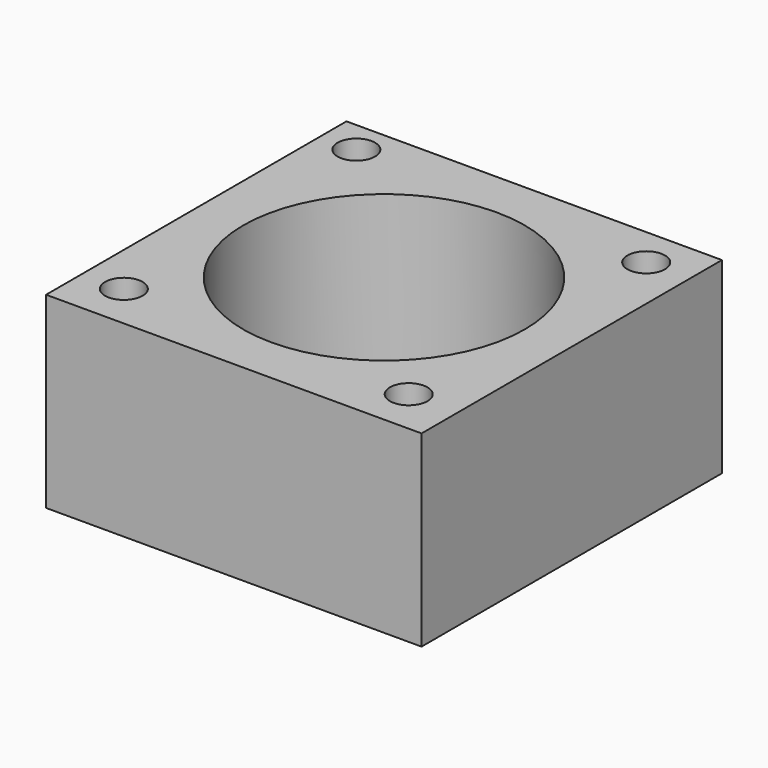
from build123d import *

# Parameters (mm, degrees)
F0_W      = 25.4
F0_H      = 25.4
F1_DEPTH  = 12.7
F2_R      = 9.525
F3_DEPTH  = 10.16
F4_R      = 8.255
F5_DEPTH  = 2.541
F6_R      = 1.27
F7_DEPTH  = 12.701
F8_R      = 1.27
F9_DEPTH  = 12.701
F10_R     = 1.27
F11_DEPTH = 12.701
F12_R     = 1.27
F13_DEPTH = 12.701


with BuildPart() as f1:
    # F0 (on Top) → F1 (new body)
    with BuildSketch(Plane.XY):
        with Locations((12.7, 12.7)):
            Rectangle(F0_W, F0_H)
    extrude(amount=F1_DEPTH)

    # F2 (on face) → F3 (cut)
    with BuildSketch(Plane.XY.offset(12.7)):
        with Locations((12.7, 12.7)):
            Circle(F2_R)
    extrude(amount=-F3_DEPTH, mode=Mode.SUBTRACT)

    # F4 (on face) → F5 (cut, through all)
    with BuildSketch(Plane.XY.offset(2.54)):
        with Locations((12.7, 12.7)):
            Circle(F4_R)
    extrude(amount=-F5_DEPTH, mode=Mode.SUBTRACT)

    # F6 (on face) → F7 (cut, through all)
    with BuildSketch(Plane.XY.offset(12.7)):
        with Locations((2.787879, 3.091837)):
            Circle(F6_R)
    extrude(amount=-F7_DEPTH, mode=Mode.SUBTRACT)

    # F8 (on face) → F9 (cut, through all)
    with BuildSketch(Plane.XY.offset(12.7)):
        with Locations((2.428474, 23.200024)):
            Circle(F8_R)
    extrude(amount=-F9_DEPTH, mode=Mode.SUBTRACT)

    # F10 (on face) → F11 (cut, through all)
    with BuildSketch(Plane.XY.offset(12.7)):
        with Locations((22.069965, 3.077724)):
            Circle(F10_R)
    extrude(amount=-F11_DEPTH, mode=Mode.SUBTRACT)

    # F12 (on face) → F13 (cut, through all)
    with BuildSketch(Plane.XY.offset(12.7)):
        with Locations((22.441011, 22.695344)):
            Circle(F12_R)
    extrude(amount=-F13_DEPTH, mode=Mode.SUBTRACT)


solid = f1.part
